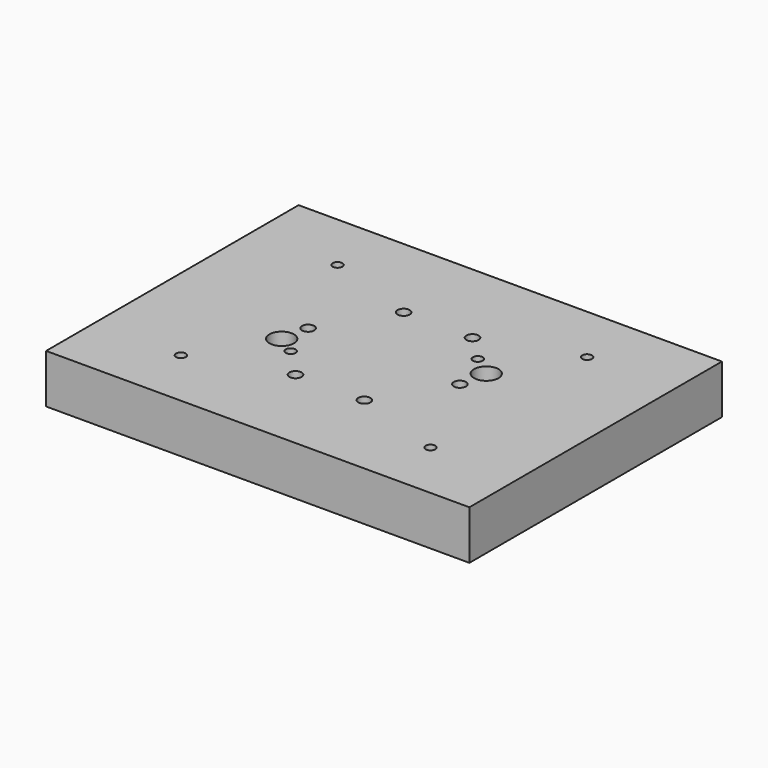
from build123d import *

# Parameters (mm, degrees)
F0_W     = 112
F0_H     = 90
F0_R     = 2
F0_R_2   = 2.5
F0_R_3   = 5
F1_DEPTH = 20
F2_W     = 173
F2_H     = 129
F2_W_2   = 112
F2_H_2   = 90
F3_DEPTH = 20


with BuildPart() as f1:
    # F0 (on Top) → F1 (new body)
    with BuildSketch(Plane.XY):
        Rectangle(F0_W, F0_H)
        with Locations((-51, -40)):
            Circle(F0_R, mode=Mode.SUBTRACT)
        with Locations((-14.073705, -27.621202)):
            Circle(F0_R_2, mode=Mode.SUBTRACT)
        with Locations((-33, -11)):
            Circle(F0_R_3, mode=Mode.SUBTRACT)
        with Locations((-25.44, -15.9)):
            Circle(F0_R, mode=Mode.SUBTRACT)
        with Locations((14.073705, -27.621202)):
            Circle(F0_R_2, mode=Mode.SUBTRACT)
        with Locations((51, -40)):
            Circle(F0_R, mode=Mode.SUBTRACT)
        with Locations((-31, 0)):
            Circle(F0_R_2, mode=Mode.SUBTRACT)
        with Locations((-51, 40)):
            Circle(F0_R, mode=Mode.SUBTRACT)
        with Locations((-14.073705, 27.621202)):
            Circle(F0_R_2, mode=Mode.SUBTRACT)
        with Locations((24.57, 17.21)):
            Circle(F0_R, mode=Mode.SUBTRACT)
        with Locations((31, 0)):
            Circle(F0_R_2, mode=Mode.SUBTRACT)
        with Locations((33, 11)):
            Circle(F0_R_3, mode=Mode.SUBTRACT)
        with Locations((14.073705, 27.621202)):
            Circle(F0_R_2, mode=Mode.SUBTRACT)
        with Locations((51, 40)):
            Circle(F0_R, mode=Mode.SUBTRACT)
    extrude(amount=F1_DEPTH)

    # F2 (on face) → F3 (join, through all)
    with BuildSketch(Plane.XY.offset(20)):
        Rectangle(F2_W, F2_H)
        Rectangle(F2_W_2, F2_H_2, mode=Mode.SUBTRACT)
    extrude(amount=-F3_DEPTH)


solid = f1.part
